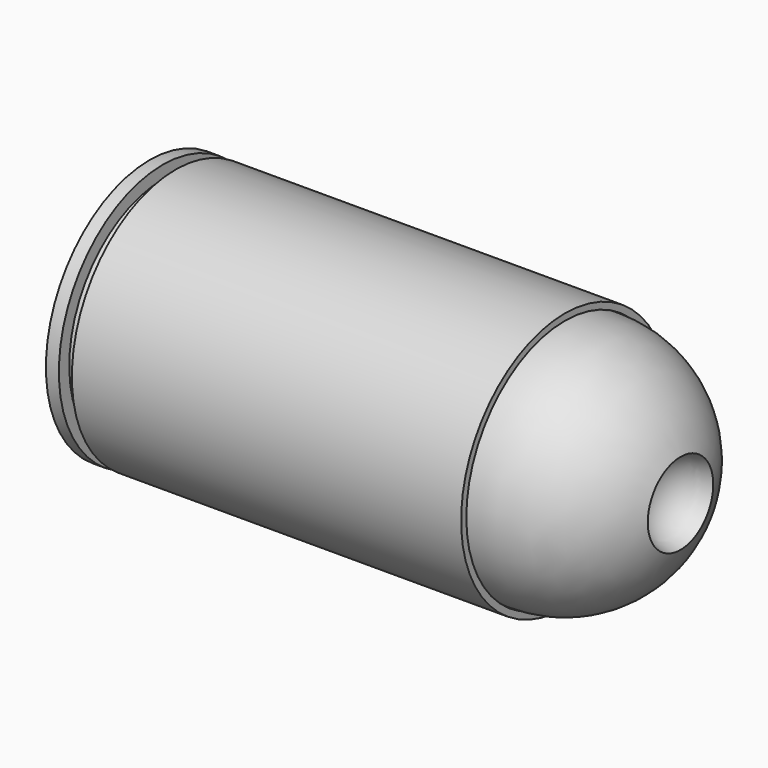
from build123d import *


with BuildPart() as f1:
    # F0 (on Front) → F1 (revolve)
    with BuildSketch(Plane.XZ):
        with BuildLine():
            Line((-51.851391, 38.693361), (-64.551391, 38.693361))
            Line((-64.551391, 38.693361), (-64.551391, -60.366639))
            ThreePointArc((-64.551391, -60.366639), (-63.807442, -62.16269), (-62.011391, -62.906639))
            Line((-62.011391, -62.906639), (-54.391391, -62.906639))
            ThreePointArc((-54.391391, -62.906639), (-52.595339, -63.650588), (-51.851391, -65.446639))
            Line((-51.851391, -65.446639), (-51.851391, -73.066639))
            ThreePointArc((-51.851391, -73.066639), (-52.595339, -74.86269), (-54.391391, -75.606639))
            Line((-54.391391, -75.606639), (-62.011391, -75.606639))
            ThreePointArc((-62.011391, -75.606639), (-63.807442, -76.350588), (-64.551391, -78.146639))
            Line((-64.551391, -78.146639), (-64.551391, -88.306639))
            Line((-64.551391, -88.306639), (-36.301106, -88.306639))
            Line((-36.301106, -88.306639), (-36.301106, 32.343361))
            Line((-36.301106, 32.343361), (189.448609, 32.343361))
            Line((189.448609, 32.343361), (341.848609, 32.343361))
            Line((341.848609, 32.343361), (341.848609, 38.693361))
            Line((341.848609, 38.693361), (-39.151391, 38.693361))
            Line((-39.151391, 38.693361), (-39.151391, 25.993361))
            Line((-39.151391, 25.993361), (-51.851391, 25.993361))
            Line((-51.851391, 25.993361), (-51.851391, 38.693361))
        make_face()
    revolve(axis=Axis((62.448609, 0, -88.306639), (1, 0, 0)))


with BuildPart() as f2:
    # F0 (on Front) → F2 (revolve)
    with BuildSketch(Plane.XZ):
        with BuildLine():
            ThreePointArc((454.976008, -48.234305), (411.110139, 9.705813), (341.848609, 31.708361))
            Line((341.848609, 31.708361), (190.083609, 31.708361))
            Line((190.083609, 31.708361), (190.083609, -88.306639))
            Line((190.083609, -88.306639), (341.848609, -88.306639))
            Line((341.848609, -88.306639), (423.824023, -88.306639))
            ThreePointArc((423.824023, -88.306639), (431.755637, -62.32778), (454.976008, -48.234305))
        make_face()
    revolve(axis=Axis((382.836316, 0, -88.306639), (1, 0, 0)))


solid = Compound([f1.part, f2.part])
